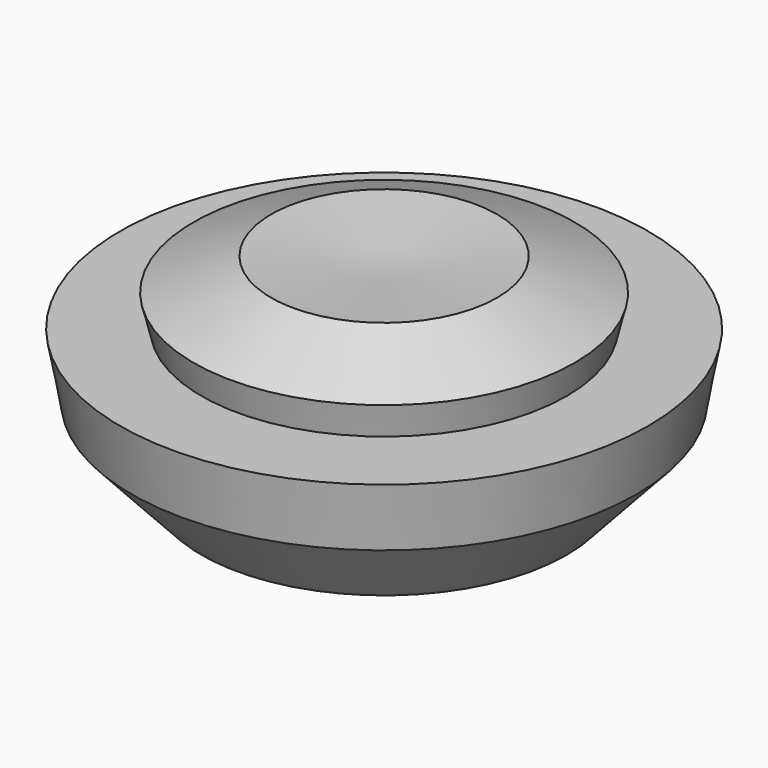
from build123d import *


with BuildPart() as f1:
    # F0 (on Front) → F1 (revolve)
    with BuildSketch(Plane.XZ):
        Polygon((0, 11.2307070125), (0, 0), (10.3018842937, 11.2307070125), align=None)
        Polygon((5.9712836383, 19.2387509909), (10.3018842937, 11.2307070125), (15.1833916245, 12.8054094151), (24.5423141349, 23.0081367678), (15.1833916245, 31.5930403458), align=None)
        Polygon((0, 11.2307070125), (10.3018842937, 11.2307070125), (5.9712836383, 19.2387509909), align=None)
        Polygon((0, 30.2807070125), (0, 11.2307070125), (5.9712836383, 19.2387509909), align=None)
        Polygon((33.9012366453, 14.4232331897), (15.1833916245, 12.8054094151), (24.5423141349, 4.2205058371), align=None)
        Polygon((24.5423141349, 23.0081367678), (15.1833916245, 12.8054094151), (33.9012366453, 14.4232331897), align=None)
        Polygon((0, 30.2807070125), (5.9712836383, 19.2387509909), (15.1833916245, 31.5930403458), align=None)
        Polygon((35.4643141349, 23.0081367678), (24.5423141349, 23.0081367678), (33.9012366453, 14.4232331897), align=None)
        Polygon((15.1833916245, 31.5930403458), (24.5423141349, 23.0081367678), (25.6031993777, 27.2795986384), align=None)
    revolve(axis=Axis((0, 0, 20.7557070125), (0, 0, -1)))


solid = f1.part
